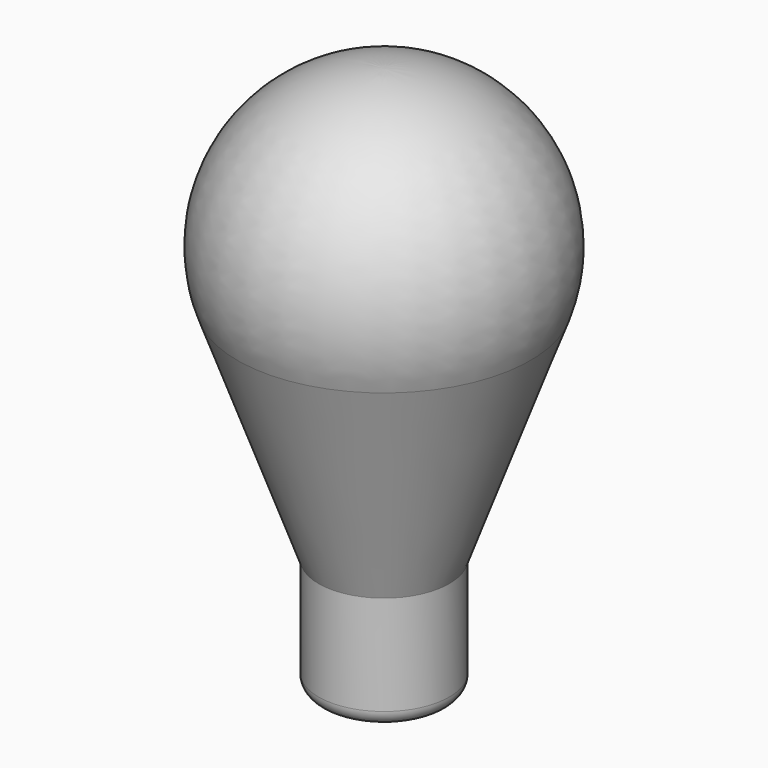
from build123d import *


with BuildPart() as f2:
    # F0 (on Front) → F2 (revolve)
    with BuildSketch(Plane.XZ):
        with BuildLine():
            ThreePointArc((-14.095389, 22.241899), (-12.287281, 35.975848), (0, 42.372201))
            Line((0, 42.372201), (0, 42.872201))
            ThreePointArc((0, 42.872201), (-12.696857, 36.262636), (-14.565236, 22.070889))
            Line((-14.565236, 22.070889), (-6.5, -0.088163))
            Line((-6.5, -0.088163), (-6.5, -10))
            ThreePointArc((-6.5, -10), (-6.06066, -11.06066), (-5, -11.5))
            Line((-5, -11.5), (0, -11.5))
            Line((0, -11.5), (0, -11))
            Line((0, -11), (-5, -11))
            ThreePointArc((-5, -11), (-5.707107, -10.707107), (-6, -10))
            Line((-6, -10), (-6, -0.881635))
            ThreePointArc((-6, -0.881635), (-6.075961, -0.013394), (-6.301537, 0.828466))
            Line((-6.301537, 0.828466), (-14.095389, 22.241899))
        make_face()
    revolve(axis=Axis((0, 0, 43.498036), (0, 0, 1)))


solid = f2.part
